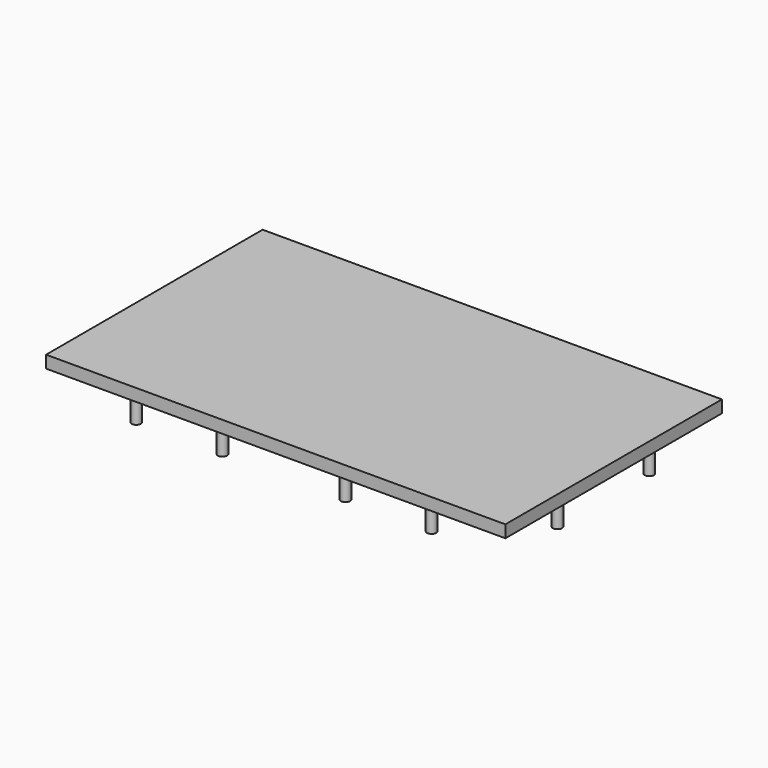
from build123d import *

# Parameters (mm, degrees)
F0_W     = 112
F0_H     = 66
F1_DEPTH = 3
F2_R     = 1.125
F3_DEPTH = 6


with BuildPart() as f1:
    # F0 (on Top) → F1 (new body)
    with BuildSketch(Plane.XY):
        Rectangle(F0_W, F0_H)
    extrude(amount=F1_DEPTH)

    # F2 (on face) → F3 (join)
    with BuildSketch(Plane(origin=(0, 0, 0), x_dir=(1, 0, 0), z_dir=(0, 0, -1))):
        with Locations((-53.5, 14)):
            Circle(F2_R)
        with Locations((-36, 30.5)):
            Circle(F2_R)
        with Locations((-15, 30.5)):
            Circle(F2_R)
        with Locations((15, 30.5)):
            Circle(F2_R)
        with Locations((36, 30.5)):
            Circle(F2_R)
        with Locations((53.5, 14)):
            Circle(F2_R)
        with Locations((53.5, -14)):
            Circle(F2_R)
        with Locations((36, -30.5)):
            Circle(F2_R)
        with Locations((15, -30.5)):
            Circle(F2_R)
        with Locations((-15, -30.5)):
            Circle(F2_R)
        with Locations((-36, -30.5)):
            Circle(F2_R)
        with Locations((-53.5, -14)):
            Circle(F2_R)
    extrude(amount=F3_DEPTH)


solid = f1.part
